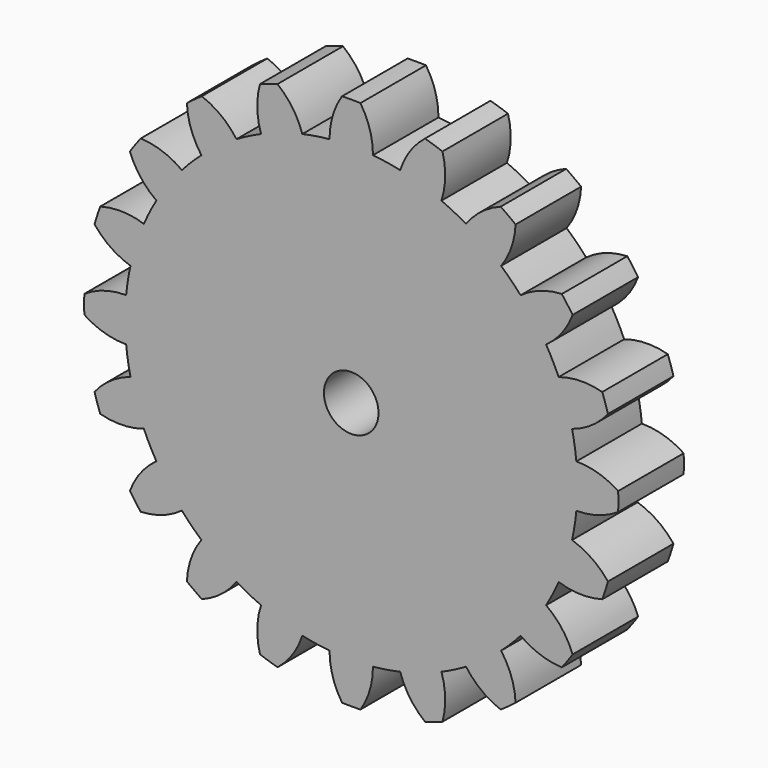
from build123d import *

# Parameters (mm, degrees)
F1_DEPTH = 3
F2_R     = 1
F3_DEPTH = 3.001


with BuildPart() as f1:
    # F0 (on Front) → F1 (new body)
    with BuildSketch(Plane.XZ):
        with BuildLine():
            ThreePointArc((8.24679, -0.794783), (8.275442, -0.397851), (8.285, 0))
            ThreePointArc((8.285, 0), (8.275442, 0.397851), (8.24679, 0.794783))
            ThreePointArc((8.24679, 0.794783), (8.182998, 1.29606), (8.088765, 1.792514))
            ThreePointArc((8.088765, 1.792514), (7.879503, 2.560206), (7.597562, 3.304282))
            ThreePointArc((7.597562, 3.304282), (7.381989, 3.761311), (7.138955, 4.204348))
            ThreePointArc((7.138955, 4.204348), (6.702706, 4.869801), (6.204631, 5.490335))
            ThreePointArc((6.204631, 5.490335), (5.85838, 5.85838), (5.490335, 6.204631))
            ThreePointArc((5.490335, 6.204631), (4.869801, 6.702706), (4.204348, 7.138955))
            ThreePointArc((4.204348, 7.138955), (3.761311, 7.381989), (3.304282, 7.597562))
            ThreePointArc((3.304282, 7.597562), (2.560206, 7.879503), (1.792514, 8.088765))
            ThreePointArc((1.792514, 8.088765), (1.29606, 8.182998), (0.794783, 8.24679))
            ThreePointArc((0.794783, 8.24679), (0, 8.285), (-0.794783, 8.24679))
            ThreePointArc((-0.794783, 8.24679), (-1.29606, 8.182998), (-1.792514, 8.088765))
            ThreePointArc((-1.792514, 8.088765), (-2.560206, 7.879503), (-3.304282, 7.597562))
            ThreePointArc((-3.304282, 7.597562), (-3.761311, 7.381989), (-4.204348, 7.138955))
            ThreePointArc((-4.204348, 7.138955), (-4.869801, 6.702706), (-5.490335, 6.204631))
            ThreePointArc((-5.490335, 6.204631), (-5.85838, 5.85838), (-6.204631, 5.490335))
            ThreePointArc((-6.204631, 5.490335), (-6.702706, 4.869801), (-7.138955, 4.204348))
            ThreePointArc((-7.138955, 4.204348), (-7.381989, 3.761311), (-7.597562, 3.304282))
            ThreePointArc((-7.597562, 3.304282), (-7.879503, 2.560206), (-8.088765, 1.792514))
            ThreePointArc((-8.088765, 1.792514), (-8.182998, 1.29606), (-8.24679, 0.794783))
            ThreePointArc((-8.24679, 0.794783), (-8.285, 0), (-8.24679, -0.794783))
            ThreePointArc((-8.24679, -0.794783), (-8.182998, -1.29606), (-8.088765, -1.792514))
            ThreePointArc((-8.088765, -1.792514), (-7.879503, -2.560206), (-7.597562, -3.304282))
            ThreePointArc((-7.597562, -3.304282), (-7.381989, -3.761311), (-7.138955, -4.204348))
            ThreePointArc((-7.138955, -4.204348), (-6.702706, -4.869801), (-6.204631, -5.490335))
            ThreePointArc((-6.204631, -5.490335), (-5.85838, -5.85838), (-5.490335, -6.204631))
            ThreePointArc((-5.490335, -6.204631), (-4.869801, -6.702706), (-4.204348, -7.138955))
            ThreePointArc((-4.204348, -7.138955), (-3.761311, -7.381989), (-3.304282, -7.597562))
            ThreePointArc((-3.304282, -7.597562), (-2.560206, -7.879503), (-1.792514, -8.088765))
            ThreePointArc((-1.792514, -8.088765), (-1.29606, -8.182998), (-0.794783, -8.24679))
            ThreePointArc((-0.794783, -8.24679), (0, -8.285), (0.794783, -8.24679))
            ThreePointArc((0.794783, -8.24679), (1.29606, -8.182998), (1.792514, -8.088765))
            ThreePointArc((1.792514, -8.088765), (2.560206, -7.879503), (3.304282, -7.597562))
            ThreePointArc((3.304282, -7.597562), (3.761311, -7.381989), (4.204348, -7.138955))
            ThreePointArc((4.204348, -7.138955), (4.869801, -6.702706), (5.490335, -6.204631))
            ThreePointArc((5.490335, -6.204631), (5.85838, -5.85838), (6.204631, -5.490335))
            ThreePointArc((6.204631, -5.490335), (6.702706, -4.869801), (7.138955, -4.204348))
            ThreePointArc((7.138955, -4.204348), (7.381989, -3.761311), (7.597562, -3.304282))
            ThreePointArc((7.597562, -3.304282), (7.879503, -2.560206), (8.088765, -1.792514))
            ThreePointArc((8.088765, -1.792514), (8.182998, -1.29606), (8.24679, -0.794783))
        make_face()
        with BuildLine():
            ThreePointArc((8.24679, 0.794783), (8.275442, 0.397851), (8.285, 0))
            ThreePointArc((8.285, 0), (8.275442, -0.397851), (8.24679, -0.794783))
            ThreePointArc((8.24679, -0.794783), (9.046963, -0.679903), (9.779182, -0.33737))
            ThreePointArc((9.779182, -0.33737), (9.785, 0), (9.779182, 0.33737))
            ThreePointArc((9.779182, 0.33737), (9.046963, 0.679903), (8.24679, 0.794783))
        make_face()
        with BuildLine():
            ThreePointArc((7.597562, 3.304282), (7.879503, 2.560206), (8.088765, 1.792514))
            ThreePointArc((8.088765, 1.792514), (8.814274, 2.149039), (9.404808, 2.701076))
            ThreePointArc((9.404808, 2.701076), (9.306088, 3.023731), (9.196302, 3.342791))
            ThreePointArc((9.196302, 3.342791), (8.394071, 3.442291), (7.597562, 3.304282))
        make_face()
        with BuildLine():
            ThreePointArc((9.404808, -2.701076), (8.814274, -2.149039), (8.088765, -1.792514))
            ThreePointArc((8.088765, -1.792514), (7.879503, -2.560206), (7.597562, -3.304282))
            ThreePointArc((7.597562, -3.304282), (8.394071, -3.442291), (9.196302, -3.342791))
            ThreePointArc((9.196302, -3.342791), (9.306088, -3.023731), (9.404808, -2.701076))
        make_face()
        with BuildLine():
            ThreePointArc((6.204631, 5.490335), (6.702706, 4.869801), (7.138955, 4.204348))
            ThreePointArc((7.138955, 4.204348), (7.718783, 4.767618), (8.109826, 5.475121))
            ThreePointArc((8.109826, 5.475121), (7.916231, 5.751479), (7.713224, 6.020997))
            ThreePointArc((7.713224, 6.020997), (6.91951, 5.867724), (6.204631, 5.490335))
        make_face()
        with BuildLine():
            ThreePointArc((8.109826, -5.475121), (7.718783, -4.767618), (7.138955, -4.204348))
            ThreePointArc((7.138955, -4.204348), (6.702706, -4.869801), (6.204631, -5.490335))
            ThreePointArc((6.204631, -5.490335), (6.91951, -5.867724), (7.713224, -6.020997))
            ThreePointArc((7.713224, -6.020997), (7.916231, -5.751479), (8.109826, -5.475121))
        make_face()
        with BuildLine():
            ThreePointArc((4.204348, 7.138955), (4.869801, 6.702706), (5.490335, 6.204631))
            ThreePointArc((5.490335, 6.204631), (5.867724, 6.91951), (6.020997, 7.713224))
            ThreePointArc((6.020997, 7.713224), (5.751479, 7.916231), (5.475121, 8.109826))
            ThreePointArc((5.475121, 8.109826), (4.767618, 7.718783), (4.204348, 7.138955))
        make_face()
        with BuildLine():
            ThreePointArc((6.020997, -7.713224), (5.867724, -6.91951), (5.490335, -6.204631))
            ThreePointArc((5.490335, -6.204631), (4.869801, -6.702706), (4.204348, -7.138955))
            ThreePointArc((4.204348, -7.138955), (4.767618, -7.718783), (5.475121, -8.109826))
            ThreePointArc((5.475121, -8.109826), (5.751479, -7.916231), (6.020997, -7.713224))
        make_face()
        with BuildLine():
            ThreePointArc((1.792514, 8.088765), (2.560206, 7.879503), (3.304282, 7.597562))
            ThreePointArc((3.304282, 7.597562), (3.442291, 8.394071), (3.342791, 9.196302))
            ThreePointArc((3.342791, 9.196302), (3.023731, 9.306088), (2.701076, 9.404808))
            ThreePointArc((2.701076, 9.404808), (2.149039, 8.814274), (1.792514, 8.088765))
        make_face()
        with BuildLine():
            ThreePointArc((3.342791, -9.196302), (3.442291, -8.394071), (3.304282, -7.597562))
            ThreePointArc((3.304282, -7.597562), (2.560206, -7.879503), (1.792514, -8.088765))
            ThreePointArc((1.792514, -8.088765), (2.149039, -8.814274), (2.701076, -9.404808))
            ThreePointArc((2.701076, -9.404808), (3.023731, -9.306088), (3.342791, -9.196302))
        make_face()
        with BuildLine():
            ThreePointArc((-0.794783, 8.24679), (0, 8.285), (0.794783, 8.24679))
            ThreePointArc((0.794783, 8.24679), (0.679903, 9.046963), (0.33737, 9.779182))
            ThreePointArc((0.33737, 9.779182), (0, 9.785), (-0.33737, 9.779182))
            ThreePointArc((-0.33737, 9.779182), (-0.679903, 9.046963), (-0.794783, 8.24679))
        make_face()
        with BuildLine():
            ThreePointArc((0.33737, -9.779182), (0.679903, -9.046963), (0.794783, -8.24679))
            ThreePointArc((0.794783, -8.24679), (0, -8.285), (-0.794783, -8.24679))
            ThreePointArc((-0.794783, -8.24679), (-0.679903, -9.046963), (-0.33737, -9.779182))
            ThreePointArc((-0.33737, -9.779182), (0, -9.785), (0.33737, -9.779182))
        make_face()
        with BuildLine():
            ThreePointArc((-3.304282, 7.597562), (-2.560206, 7.879503), (-1.792514, 8.088765))
            ThreePointArc((-1.792514, 8.088765), (-2.149039, 8.814274), (-2.701076, 9.404808))
            ThreePointArc((-2.701076, 9.404808), (-3.023731, 9.306088), (-3.342791, 9.196302))
            ThreePointArc((-3.342791, 9.196302), (-3.442291, 8.394071), (-3.304282, 7.597562))
        make_face()
        with BuildLine():
            ThreePointArc((-2.701076, -9.404808), (-2.149039, -8.814274), (-1.792514, -8.088765))
            ThreePointArc((-1.792514, -8.088765), (-2.560206, -7.879503), (-3.304282, -7.597562))
            ThreePointArc((-3.304282, -7.597562), (-3.442291, -8.394071), (-3.342791, -9.196302))
            ThreePointArc((-3.342791, -9.196302), (-3.023731, -9.306088), (-2.701076, -9.404808))
        make_face()
        with BuildLine():
            ThreePointArc((-5.490335, 6.204631), (-4.869801, 6.702706), (-4.204348, 7.138955))
            ThreePointArc((-4.204348, 7.138955), (-4.767618, 7.718783), (-5.475121, 8.109826))
            ThreePointArc((-5.475121, 8.109826), (-5.751479, 7.916231), (-6.020997, 7.713224))
            ThreePointArc((-6.020997, 7.713224), (-5.867724, 6.91951), (-5.490335, 6.204631))
        make_face()
        with BuildLine():
            ThreePointArc((-5.475121, -8.109826), (-4.767618, -7.718783), (-4.204348, -7.138955))
            ThreePointArc((-4.204348, -7.138955), (-4.869801, -6.702706), (-5.490335, -6.204631))
            ThreePointArc((-5.490335, -6.204631), (-5.867724, -6.91951), (-6.020997, -7.713224))
            ThreePointArc((-6.020997, -7.713224), (-5.751479, -7.916231), (-5.475121, -8.109826))
        make_face()
        with BuildLine():
            ThreePointArc((-7.138955, 4.204348), (-6.702706, 4.869801), (-6.204631, 5.490335))
            ThreePointArc((-6.204631, 5.490335), (-6.91951, 5.867724), (-7.713224, 6.020997))
            ThreePointArc((-7.713224, 6.020997), (-7.916231, 5.751479), (-8.109826, 5.475121))
            ThreePointArc((-8.109826, 5.475121), (-7.718783, 4.767618), (-7.138955, 4.204348))
        make_face()
        with BuildLine():
            ThreePointArc((-7.713224, -6.020997), (-6.91951, -5.867724), (-6.204631, -5.490335))
            ThreePointArc((-6.204631, -5.490335), (-6.702706, -4.869801), (-7.138955, -4.204348))
            ThreePointArc((-7.138955, -4.204348), (-7.718783, -4.767618), (-8.109826, -5.475121))
            ThreePointArc((-8.109826, -5.475121), (-7.916231, -5.751479), (-7.713224, -6.020997))
        make_face()
        with BuildLine():
            ThreePointArc((-8.088765, 1.792514), (-7.879503, 2.560206), (-7.597562, 3.304282))
            ThreePointArc((-7.597562, 3.304282), (-8.394071, 3.442291), (-9.196302, 3.342791))
            ThreePointArc((-9.196302, 3.342791), (-9.306088, 3.023731), (-9.404808, 2.701076))
            ThreePointArc((-9.404808, 2.701076), (-8.814274, 2.149039), (-8.088765, 1.792514))
        make_face()
        with BuildLine():
            ThreePointArc((-9.196302, -3.342791), (-8.394071, -3.442291), (-7.597562, -3.304282))
            ThreePointArc((-7.597562, -3.304282), (-7.879503, -2.560206), (-8.088765, -1.792514))
            ThreePointArc((-8.088765, -1.792514), (-8.814274, -2.149039), (-9.404808, -2.701076))
            ThreePointArc((-9.404808, -2.701076), (-9.306088, -3.023731), (-9.196302, -3.342791))
        make_face()
        with BuildLine():
            ThreePointArc((-8.24679, -0.794783), (-8.285, 0), (-8.24679, 0.794783))
            ThreePointArc((-8.24679, 0.794783), (-9.046963, 0.679903), (-9.779182, 0.33737))
            ThreePointArc((-9.779182, 0.33737), (-9.785, 0), (-9.779182, -0.33737))
            ThreePointArc((-9.779182, -0.33737), (-9.046963, -0.679903), (-8.24679, -0.794783))
        make_face()
    extrude(amount=F1_DEPTH)

    # F2 (on face) → F3 (cut, through all)
    with BuildSketch(Plane(origin=(0, 0, 0), x_dir=(-1, 0, 0), z_dir=(0, 1, 0))):
        Circle(F2_R)
    extrude(amount=-F3_DEPTH, mode=Mode.SUBTRACT)


with BuildPart() as f4_1:
    # F4: copy of F1
    add(f1.part)


solid = f1.part
